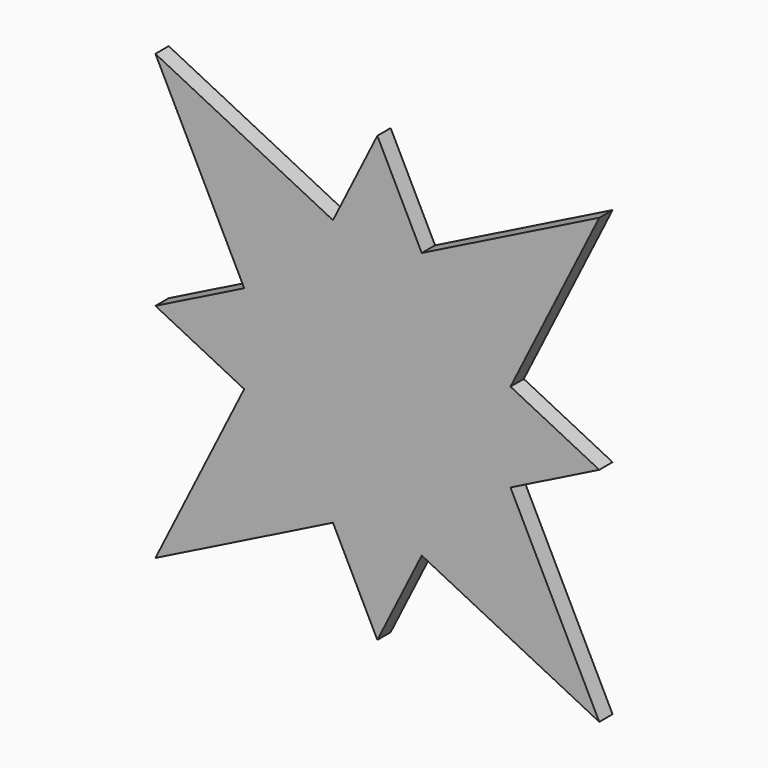
from build123d import *

# Parameters (mm, degrees)
F0_W     = 101.6
F0_H     = 101.6
F1_DEPTH = 7.62
F3_DEPTH = 3.81


with BuildPart() as f1:
    # F0 (on Front) → F1 (new body)
    with BuildSketch(Plane.XZ):
        Rectangle(F0_W, F0_H)
    extrude(amount=F1_DEPTH)

    # F2 (on face) → F3 (intersect)
    with BuildSketch(Plane.XZ.offset(7.62)):
        Polygon((-16.9333333333, 16.9333333333), (-10.16, 30.48), (-50.8, 50.8), (-30.48, 10.16), align=None)
        Polygon((10.16, 30.48), (0, 50.8), (-10.16, 30.48), (0, 25.4), align=None)
        Polygon((0, 25.4), (-10.16, 30.48), (-16.9333333333, 16.9333333333), align=None)
        Polygon((16.9333333333, 16.9333333333), (10.16, 30.48), (0, 25.4), align=None)
        Polygon((50.8, 50.8), (10.16, 30.48), (16.9333333333, 16.9333333333), (30.48, 10.16), align=None)
        Polygon((50.8, 0), (30.48, 10.16), (25.4, 0), (30.48, -10.16), align=None)
        Polygon((50.8, -50.8), (30.48, -10.16), (16.9333333333, -16.9333333333), (10.16, -30.48), align=None)
        Polygon((-10.16, -30.48), (0, -50.8), (10.16, -30.48), (0, -25.4), align=None)
        Polygon((-16.9333333333, -16.9333333333), (-30.48, -10.16), (-50.8, -50.8), (-10.16, -30.48), align=None)
        Polygon((-25.4, 0), (-30.48, 10.16), (-50.8, 0), (-30.48, -10.16), align=None)
        Polygon((-25.4, 0), (-16.9333333333, 16.9333333333), (-30.48, 10.16), align=None)
        Polygon((0, 25.4), (-16.9333333333, 16.9333333333), (-25.4, 0), (-16.9333333333, -16.9333333333), (0, -25.4), (16.9333333333, -16.9333333333), (25.4, 0), (16.9333333333, 16.9333333333), align=None)
        Polygon((10.16, -30.48), (16.9333333333, -16.9333333333), (0, -25.4), align=None)
        Polygon((30.48, -10.16), (25.4, 0), (16.9333333333, -16.9333333333), align=None)
        Polygon((30.48, 10.16), (16.9333333333, 16.9333333333), (25.4, 0), align=None)
        Polygon((-16.9333333333, -16.9333333333), (-25.4, 0), (-30.48, -10.16), align=None)
        Polygon((0, -25.4), (-16.9333333333, -16.9333333333), (-10.16, -30.48), align=None)
    extrude(amount=-F3_DEPTH, mode=Mode.INTERSECT)


solid = f1.part
